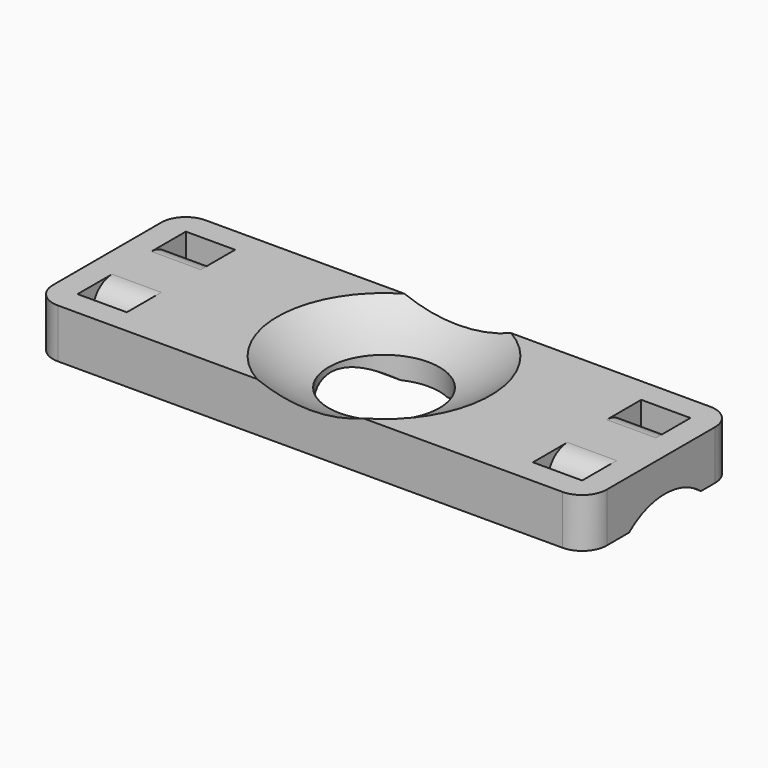
from build123d import *

# Parameters (mm, degrees)
F1_W      = 45
F1_H      = 15
F2_DEPTH  = 4
F6_R      = 4.5
F7_DEPTH  = 16
F8_W      = 4
F8_H      = 1.5
F9_DEPTH  = 25
F10_R     = 2
F11_R     = 2
F13_DEPTH = 50


with BuildPart() as f2:
    # F1 (on Top) → F2 (new body)
    with BuildSketch(Plane.XY):
        Rectangle(F1_W, F1_H)
    extrude(amount=-F2_DEPTH)

    # F4 (on offset) → F5 (revolve, cut)
    with BuildSketch(Plane(origin=(0, 0, 11), x_dir=(1, 0, 0), z_dir=(0, 0, -1))):
        with BuildLine():
            Line((-14, 0), (14, 0))
            ThreePointArc((14, 0), (0, 14), (-14, 0))
        make_face()
    revolve(axis=Axis((0, 0, 11), (1, 0, 0)), mode=Mode.SUBTRACT)

    # F6 (on offset) → F7 (cut)
    with BuildSketch(Plane(origin=(0, 0, 11), x_dir=(1, 0, 0), z_dir=(0, 0, -1))):
        Circle(F6_R)
    extrude(amount=F7_DEPTH, mode=Mode.SUBTRACT)

    # F8 (on face) → F9 (cut)
    with BuildSketch(Plane(origin=(0, 0, -4), x_dir=(1, 0, 0), z_dir=(0, 0, -1))):
        with Locations((-18.5, 4.75)):
            Rectangle(F8_W, F8_H)
        with Locations((18.5, 4.75)):
            Rectangle(F8_W, F8_H)
        with Locations((-18.5, -4.75)):
            Rectangle(F8_W, F8_H)
        with Locations((18.5, -4.75)):
            Rectangle(F8_W, F8_H)
    extrude(amount=-F9_DEPTH, mode=Mode.SUBTRACT)

    # F10
    f10_edges = [f2.edges().sort_by_distance(p)[0] for p in [
        (-18.5, -4, 0),
        (18.5, -4, 0),
        (18.5, 4, 0),
        (-18.5, 4, 0),
    ]]
    fillet(f10_edges, radius=F10_R)

    # F11
    f11_edges = [f2.edges().sort_by_distance(p)[0] for p in [
        (-22.5, -7.5, -2),
        (22.5, -7.5, -2),
        (22.5, 7.5, -2),
        (-22.5, 7.5, -2),
    ]]
    fillet(f11_edges, radius=F11_R)

    # F12 (on face) → F13 (cut)
    with BuildSketch(Plane(origin=(-22.5, 0, 0), x_dir=(0, -1, 0), z_dir=(-1, 0, 0))):
        with BuildLine():
            ThreePointArc((3.2411857887, -4), (-0.4165064602, -2.7009731345), (-4.074198709, -4))
            Line((-4.074198709, -4), (3.2411857887, -4))
        make_face()
    extrude(amount=-F13_DEPTH, mode=Mode.SUBTRACT)


solid = f2.part
